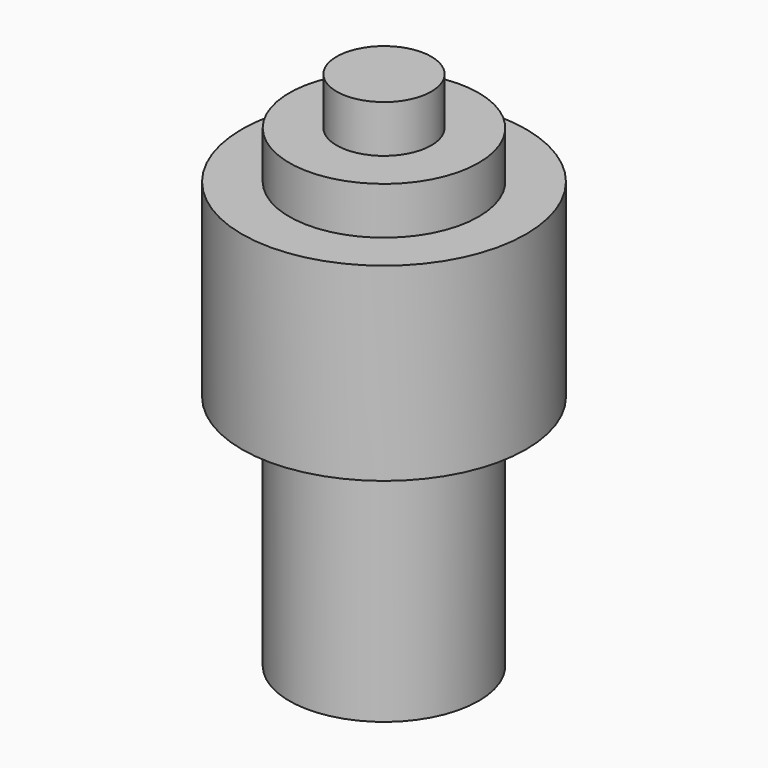
from build123d import *

# Parameters (mm, degrees)
F0_R     = 0.5
F1_DEPTH = 3
F0_R_2   = 1.5
F0_R_3   = 1
F2_DEPTH = 2
F3_DEPTH = 1
F4_R     = 0.958214
F5_DEPTH = 0.5
F6_R     = 1
F7_DEPTH = 2.5


with BuildPart() as f1:
    # F0 (on Top) → F1 (new body)
    with BuildSketch(Plane.XY):
        Circle(F0_R)
    extrude(amount=F1_DEPTH)

    # F0 (on Top) → F3 (join)
    with BuildSketch(Plane.XY):
        Circle(F0_R)
    extrude(amount=-F3_DEPTH)

    # F4 (on face) → F5 (join, symmetric)
    with BuildSketch(Plane(origin=(0, 0, -1), x_dir=(1, 0, 0), z_dir=(0, 0, -1))):
        Circle(F4_R)
    extrude(amount=F5_DEPTH, both=True)


with BuildPart() as f2:
    # F0 (on Top) → F2 (new body)
    with BuildSketch(Plane.XY):
        Circle(F0_R_2)
        Circle(F0_R_3, mode=Mode.SUBTRACT)
    extrude(amount=F2_DEPTH)


with BuildPart() as f7:
    # F6 (on Top) → F7 (new body, symmetric)
    with BuildSketch(Plane.XY):
        Circle(F6_R)
    extrude(amount=F7_DEPTH, both=True)


solid = Compound([f1.part, f2.part, f7.part])
